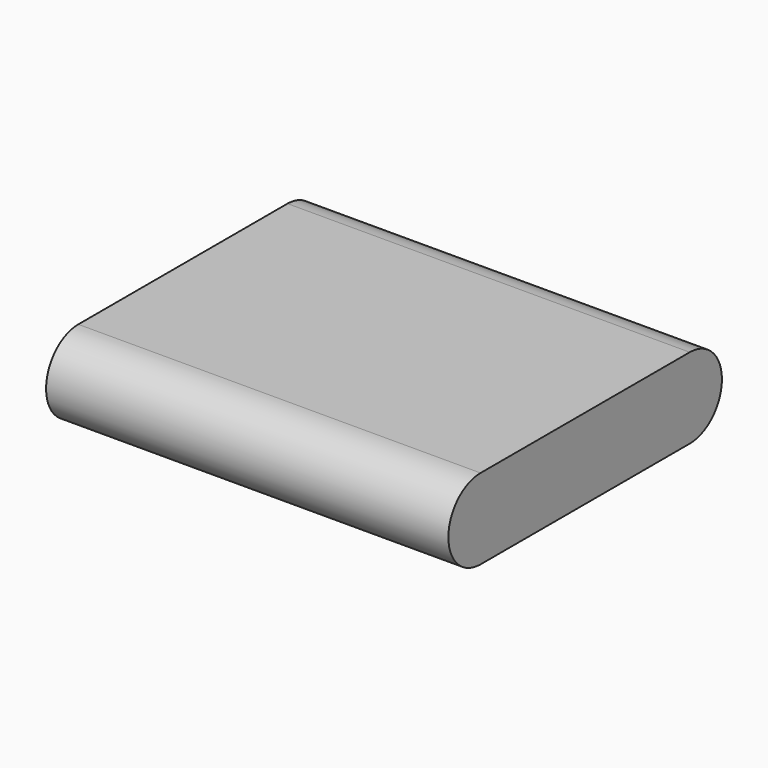
from build123d import *

# Parameters (mm, degrees)
F1_DEPTH = 10


with BuildPart() as f1:
    # F0 (on Right) → F1 (new body, symmetric)
    with BuildSketch(Plane.YZ):
        with BuildLine():
            Line((6.5, 2), (-6.5, 2))
            ThreePointArc((-6.5, 2), (-8.5, 0), (-6.5, -2))
            Line((-6.5, -2), (6.5, -2))
            ThreePointArc((6.5, -2), (8.5, 0), (6.5, 2))
        make_face()
    extrude(amount=F1_DEPTH, both=True)


solid = f1.part
